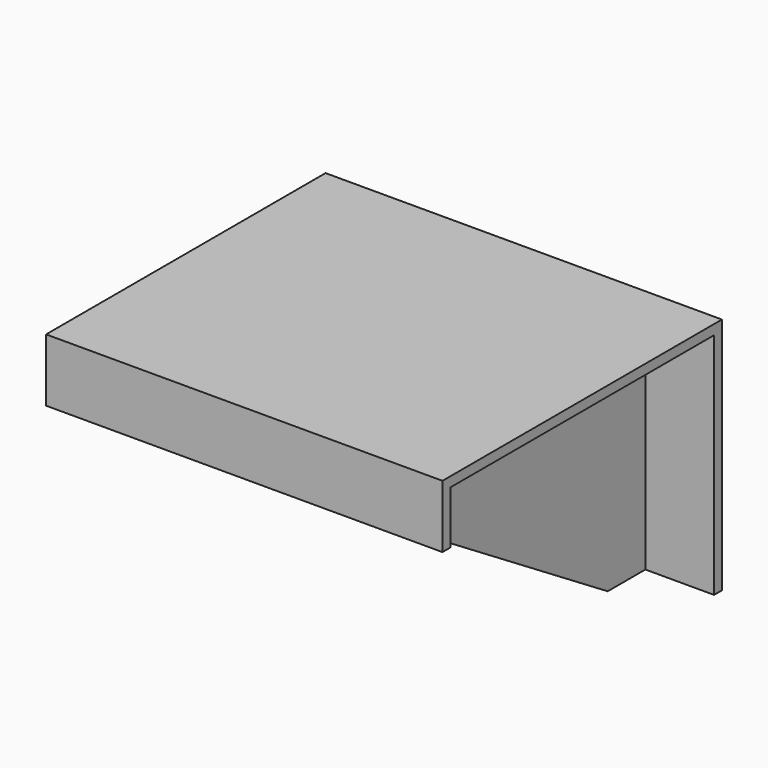
from build123d import *

# Parameters (mm, degrees)
F0_W     = 320.675
F0_H     = 192.913
F1_DEPTH = 7.9375
F4_DEPTH = 266.7
F6_DEPTH = 265.1135
F8_W     = 320.675
F8_H     = 50.8
F9_DEPTH = 7.9375


with BuildPart() as f1:
    # F0 (on Front) → F1 (new body)
    with BuildSketch(Plane.XZ):
        with Locations((0, -96.4565)):
            Rectangle(F0_W, F0_H)
    extrude(amount=F1_DEPTH)

    # F3 (on face) → F4 (join)
    with BuildSketch(Plane.XZ.offset(7.9375)):
        Polygon((160.3375, 0), (-160.3375, 0), (-160.3375, -7.9375), (-104.775, -7.9375), (-104.775, -192.913), (-96.8375, -192.913), (-96.8375, -7.9375), (96.8375, -7.9375), (96.8375, -192.913), (104.775, -192.913), (104.775, -7.9375), (160.3375, -7.9375), align=None)
    extrude(amount=F4_DEPTH)

    # F5 (on face) → F6 (cut, through all)
    with BuildSketch(Plane(origin=(-104.775, 0, 0), x_dir=(0, -1, 0), z_dir=(-1, 0, 0))):
        Polygon((274.6375, -50.8), (46.0375, -192.913), (274.6375, -192.913), align=None)
    extrude(amount=-F6_DEPTH, mode=Mode.SUBTRACT)

    # F8 (on face) → F9 (join)
    with BuildSketch(Plane.XZ.offset(274.6375)):
        with Locations((0, -25.4)):
            Rectangle(F8_W, F8_H)
    extrude(amount=F9_DEPTH)


solid = f1.part
